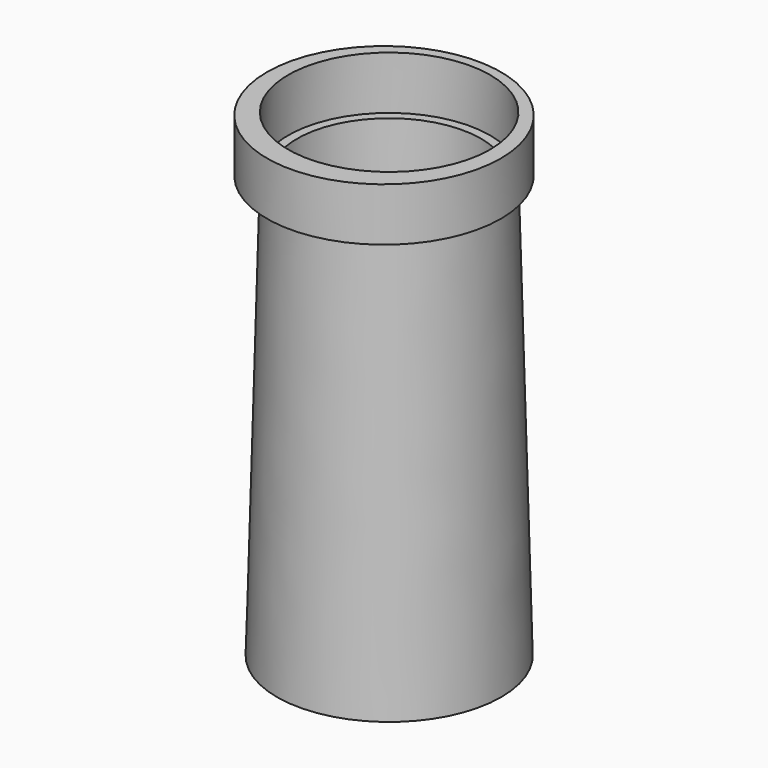
from build123d import *

# Parameters (mm, degrees)
F0_R     = 9.5
F0_R_2   = 8.65
F1_DEPTH = 40
F1_TAPER = -1.5
F0_R_3   = 11
F2_DEPTH = 5


with BuildPart() as f1:
    # F0 (on Top) → F1 (new body)
    with BuildSketch(Plane.XY):
        Circle(F0_R)
        Circle(F0_R_2, mode=Mode.SUBTRACT)
    extrude(amount=-F1_DEPTH, taper=F1_TAPER)

    # F0 (on Top) → F2 (join)
    with BuildSketch(Plane.XY):
        with Locations((0, -0.6035432452)):
            Circle(F0_R_3)
        Circle(F0_R, mode=Mode.SUBTRACT)
    extrude(amount=F2_DEPTH)


solid = f1.part
